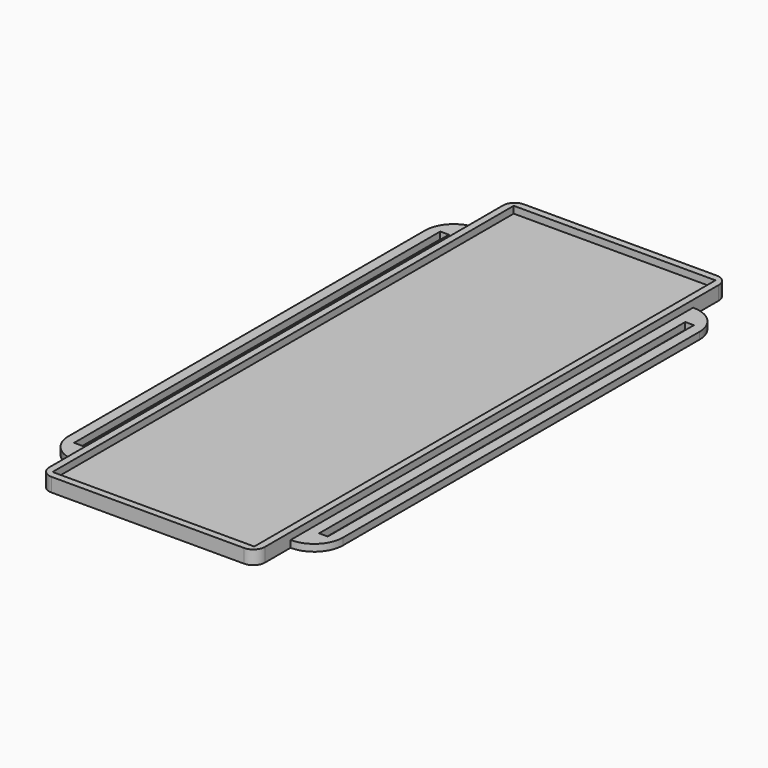
from build123d import *

# Parameters (mm, degrees)
F1_W     = 35
F1_H     = 100
F2_DEPTH = 1.2
F1_W_2   = 37.4
F1_H_2   = 102.4
F3_DEPTH = 2.4
F4_R     = 2
F5_W     = 1.5
F5_H     = 79.3849229813
F6_DEPTH = 1.2
F7_R     = 5


with BuildPart() as f2:
    # F1 (on Top) → F2 (new body)
    with BuildSketch(Plane.XY):
        Rectangle(F1_W, F1_H)
    extrude(amount=F2_DEPTH)

    # F1 (on Top) → F3 (join)
    with BuildSketch(Plane.XY):
        Rectangle(F1_W_2, F1_H_2)
        Rectangle(F1_W, F1_H, mode=Mode.SUBTRACT)
    extrude(amount=F3_DEPTH)

    # F4
    f4_edges = [f2.edges().sort_by_distance(p)[0] for p in [
        (-18.7, -51.2, 1.2),
        (18.7, -51.2, 1.2),
        (18.7, 51.2, 1.2),
        (-18.7, 51.2, 1.2),
    ]]
    fillet(f4_edges, radius=F4_R)

    # F5 (on face) → F6 (join)
    with BuildSketch(Plane.XY):
        Polygon((-23.8, -43.636681512), (-18.7, -43.636681512), (-18.7, 43.636681512), (-23.8, 43.636681512), (-23.8, 0), align=None)
        with Locations((-21.25, 0)):
            Rectangle(F5_W, F5_H, mode=Mode.SUBTRACT)
        Polygon((23.8, -43.636681512), (23.8, 0), (23.8, 43.636681512), (18.7, 43.636681512), (18.7, -43.636681512), align=None)
        with Locations((21.25, 0)):
            Rectangle(F5_W, F5_H, mode=Mode.SUBTRACT)
    extrude(amount=F6_DEPTH)

    # F7
    f7_edges = [f2.edges().sort_by_distance(p)[0] for p in [
        (-23.8, 43.636682, 0.6),
        (23.8, 43.636682, 0.6),
        (23.8, -43.636682, 0.6),
        (-23.8, -43.636682, 0.6),
    ]]
    fillet(f7_edges, radius=F7_R)


solid = f2.part
